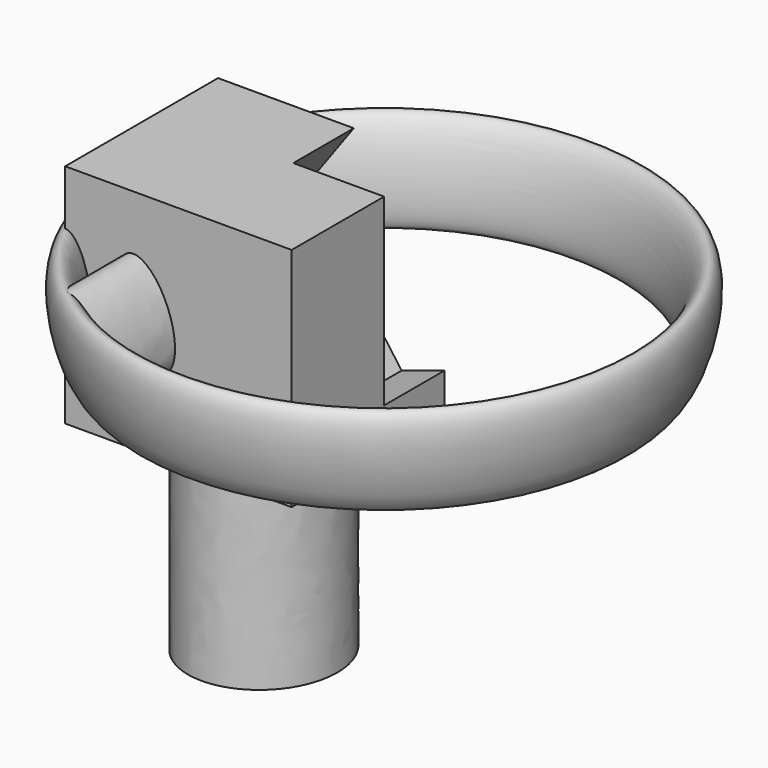
from build123d import *

# Parameters (mm, degrees)
F0_W     = 76.2
F0_H     = 76.2
F1_DEPTH = 64.262
F3_DEPTH = 25.4
F5_DEPTH = 66.04
F7_DEPTH = 27.94


with BuildPart() as f1:
    # F0 (on Front) → F1 (new body)
    with BuildSketch(Plane.XZ):
        with Locations((-3.0241526897, 50.5400791801)):
            Rectangle(F0_W, F0_H)
    extrude(amount=-F1_DEPTH)

    # F2 (on face) → F3 (cut)
    with BuildSketch(Plane(origin=(0, 64.262, 0), x_dir=(-1, 0, 0), z_dir=(0, 1, 0))):
        Polygon((11.5626142932, 66.4589195888), (-20.6548148407, 110.8212387714), (-72.8016206947, 93.8893533926), (-72.8126899833, 39.0625535523), (-20.6727253259, 22.1096131354), align=None)
    extrude(amount=-F3_DEPTH, mode=Mode.SUBTRACT)

    # F6 (on face) → F7 (join)
    with BuildSketch(Plane.XZ):
        with BuildLine():
            add(Edge.make_bspline(
                [(-19.662624225, 69.9331462383), (-32.9675645201, 65.0613652246), (-17.5499608092, 43.5594846346), (-2.1323570982, 22.0576040447), (-4.245020514, 48.4312656484), (-6.3576839299, 74.804927252), (-19.662624225, 69.9331462383)],
                knots=[0, 0, 0, 2.0943951024, 2.0943951024, 4.1887902048, 4.1887902048, 6.2831853072, 6.2831853072, 6.2831853072], degree=2, weights=[1, 0.5, 1, 0.5, 1, 0.5, 1]))
        make_face()
    extrude(amount=F7_DEPTH)

    # F7_face (on face) → F8 (revolve)
    with BuildSketch(Plane(origin=(-13.8151847408, -27.94, 53.965024466), x_dir=(1, 0, 0), z_dir=(0, -1, 0))):
        with BuildLine():
            add(Edge.make_bspline(
                [(-5.8474394843, 15.9681217723), (-19.1523797794, 11.0963407586), (-3.7347760684, -10.4055398313), (11.6828276426, -31.9074204213), (9.5701642267, -5.5337588176), (7.4575008109, 20.8399027861), (-5.8474394843, 15.9681217723)],
                knots=[0, 0, 0, 2.0943951024, 2.0943951024, 4.1887902048, 4.1887902048, 6.2831853072, 6.2831853072, 6.2831853072], degree=2, weights=[1, 0.5, 1, 0.5, 1, 0.5, 1]))
        make_face()
    revolve(axis=Axis((35.0758473103, 38.862, 57.7163827355), (0, 0, 1)))


with BuildPart() as f5:
    # F4 (on face) → F5 (new body)
    with BuildSketch(Plane(origin=(0, 0, 12.4400791801), x_dir=(1, 0, 0), z_dir=(0, 0, -1))):
        with BuildLine():
            add(Edge.make_bspline(
                [(-9.2370640486, -8.7020257488), (-47.5103785149, -23.7915919111), (-14.5181252088, -51.3902702068), (18.4741280973, -78.9889485024), (23.7551892574, -36.3007040445), (29.0362504176, 6.3875404135), (-9.2370640486, -8.7020257488)],
                knots=[0, 0, 0, 2.0943951024, 2.0943951024, 4.1887902048, 4.1887902048, 6.2831853072, 6.2831853072, 6.2831853072], degree=2, weights=[1, 0.5, 1, 0.5, 1, 0.5, 1]))
        make_face()
    extrude(amount=F5_DEPTH)


solid = Compound([f1.part, f5.part])
